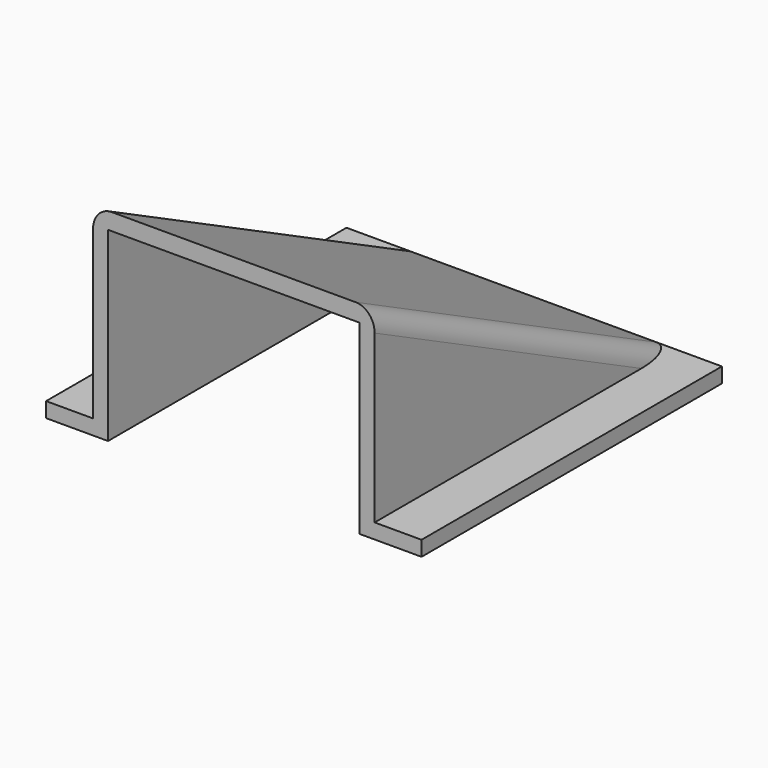
from build123d import *

# Parameters (mm, degrees)
F0_W     = 30
F0_H     = 40
F1_DEPTH = 20
F3_DEPTH = 30.001
F4_T     = -1.6
F5_W     = 26.8
F5_H     = 33.2
F6_DEPTH = 1.6
F8_DEPTH = 1.6
F9_R     = 2


with BuildPart() as f1:
    # F0 (on Top) → F1 (new body)
    with BuildSketch(Plane.XY):
        Rectangle(F0_W, F0_H)
    extrude(amount=F1_DEPTH)

    # F2 (on face) → F3 (cut, through all)
    with BuildSketch(Plane.YZ.offset(15)):
        Polygon((20, 20), (-20, 20), (20, 0), align=None)
    extrude(amount=-F3_DEPTH, mode=Mode.SUBTRACT)

    # F4
    f4_openings = [f1.faces().sort_by_distance(p)[0] for p in [
        (0, -20, 10),
    ]]
    offset(amount=F4_T, openings=f4_openings)

    # F5 (on face) → F6 (cut)
    with BuildSketch(Plane(origin=(0, 0, 0), x_dir=(1, 0, 0), z_dir=(0, 0, -1))):
        with Locations((0, 3.4)):
            Rectangle(F5_W, F5_H)
    extrude(amount=-F6_DEPTH, mode=Mode.SUBTRACT)

    # F7 (on face) → F8 (join)
    with BuildSketch(Plane(origin=(0, 0, 0), x_dir=(1, 0, 0), z_dir=(0, 0, -1))):
        Polygon((-20, 20), (-20, -20), (20, -20), (20, 20), (13.4, 20), (13.4, -13.2), (-13.4, -13.2), (-13.4, 20), align=None)
    extrude(amount=F8_DEPTH)

    # F9
    f9_edges = [f1.edges().sort_by_distance(p)[0] for p in [
        (-15, 0, 10),
        (15, 0, 10),
    ]]
    fillet(f9_edges, radius=F9_R)


solid = f1.part
